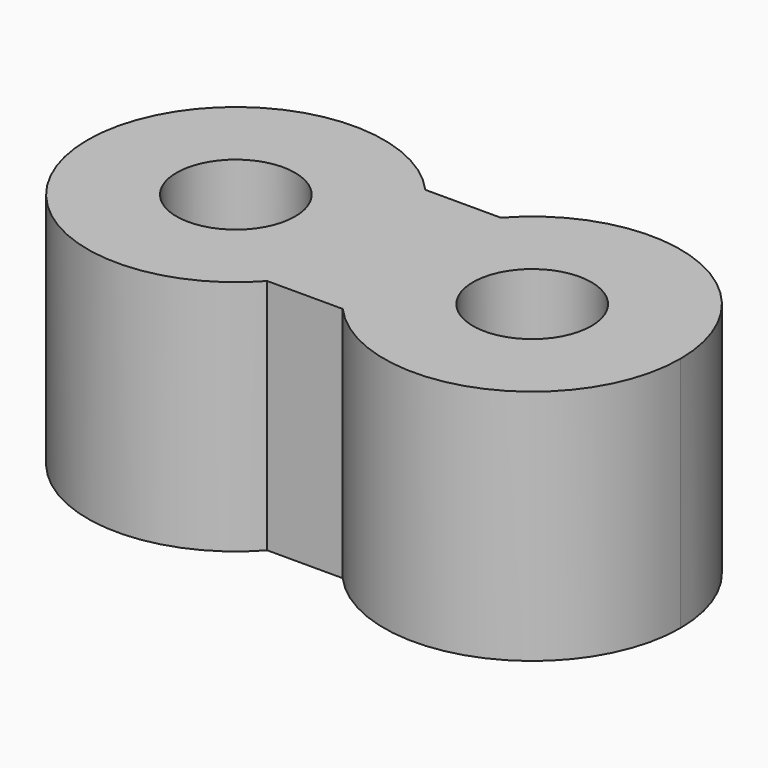
from build123d import *

# Parameters (mm, degrees)
F1_DEPTH = 24
F2_R     = 6
F3_DEPTH = 24.001


with BuildPart() as f1:
    # F0 (on Top) → F1 (new body)
    with BuildSketch(Plane.XY):
        with BuildLine():
            ThreePointArc((-3.81966, -10), (-0.987415, -5.352331), (0, 0))
            ThreePointArc((0, 0), (-0.987415, 5.352331), (-3.81966, 10))
            ThreePointArc((-3.81966, 10), (-30, 0), (-3.81966, -10))
        make_face()
        with BuildLine():
            ThreePointArc((3.81966, -10), (0.987415, -5.352331), (0, 0))
            ThreePointArc((0, 0), (-0.987415, -5.352331), (-3.81966, -10))
            Line((-3.81966, -10), (0, -10))
            Line((0, -10), (3.81966, -10))
        make_face()
        with BuildLine():
            ThreePointArc((-3.81966, 10), (-0.987415, 5.352331), (0, 0))
            ThreePointArc((0, 0), (0.987415, 5.352331), (3.81966, 10))
            Line((3.81966, 10), (-3.81966, 10))
        make_face()
        with BuildLine():
            ThreePointArc((3.81966, 10), (0.987415, 5.352331), (0, 0))
            ThreePointArc((0, 0), (0.987415, -5.352331), (3.81966, -10))
            ThreePointArc((3.81966, -10), (20.352331, -14.012585), (30, 0))
            ThreePointArc((30, 0), (20.352331, 14.012585), (3.81966, 10))
        make_face()
    extrude(amount=F1_DEPTH)

    # F2 (on face) → F3 (cut, through all)
    with BuildSketch(Plane.XY.offset(24)):
        with Locations((-15, 0)):
            Circle(F2_R)
        with Locations((15, 0)):
            Circle(F2_R)
    extrude(amount=-F3_DEPTH, mode=Mode.SUBTRACT)


solid = f1.part
